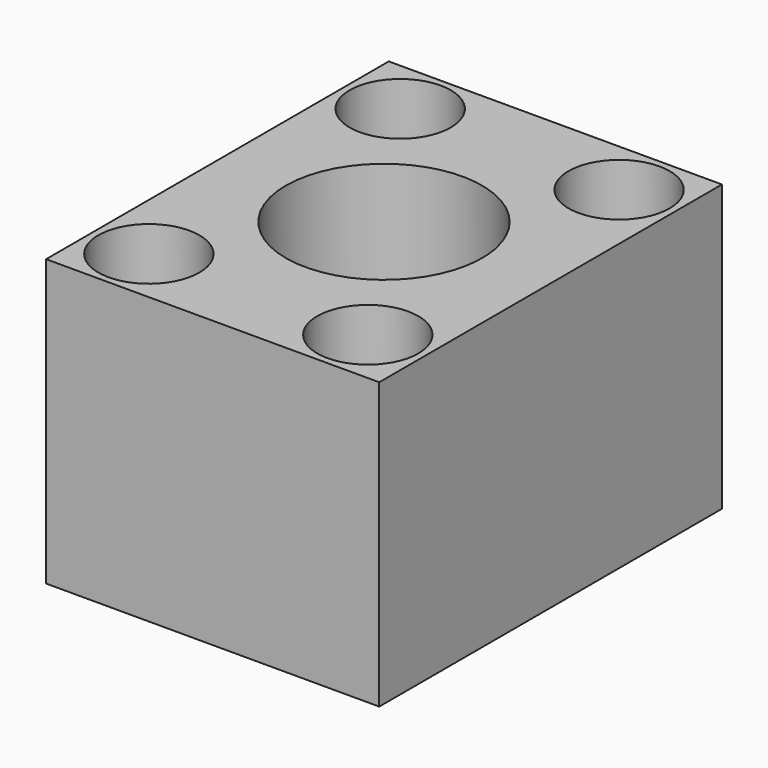
from build123d import *

# Parameters (mm, degrees)
F0_W           = 44.45
F0_H           = 57.15
F1_DEPTH       = 38.1
F4_D           = 26.19375
F6_D           = 8.73125
F6_CBORE_D     = 13.4874
F6_CBORE_DEPTH = 9.525


with BuildPart() as f1:
    # F0 (on Top) → F1 (new body)
    with BuildSketch(Plane.XY):
        Rectangle(F0_W, F0_H)
    extrude(amount=F1_DEPTH)

    # F4 (through all)
    with Locations(Plane.XY.offset(38.1)):
        with Locations((0, 0)):
            Hole(F4_D / 2)

    # F6 (through all)
    with Locations(Plane.XY.offset(38.1)):
        with Locations((-14.605, 20.955), (14.605, 20.955), (14.605, -20.955), (-14.605, -20.955)):
            CounterBoreHole(F6_D / 2, F6_CBORE_D / 2, F6_CBORE_DEPTH)


solid = f1.part
